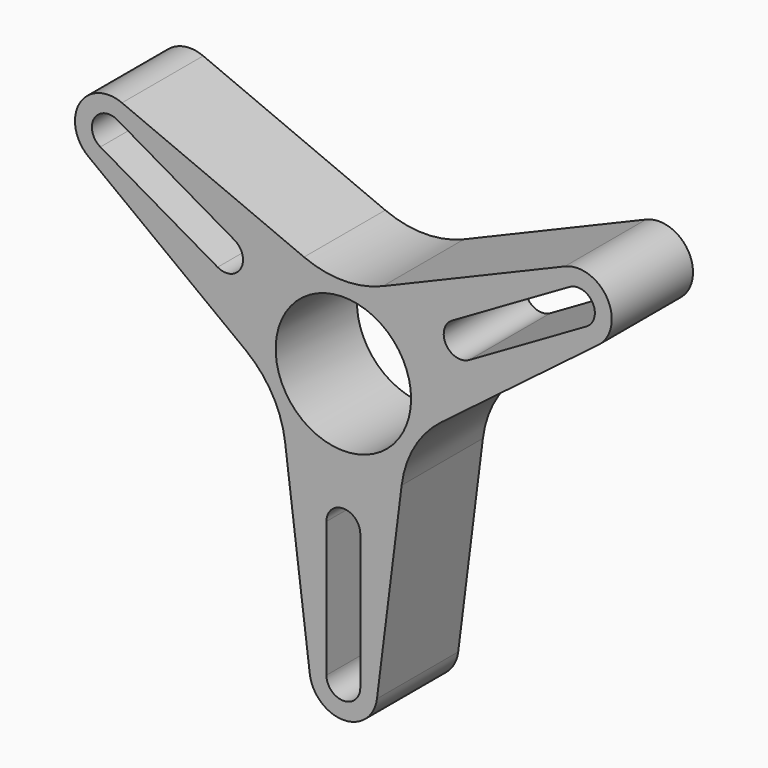
from build123d import *

# Parameters (mm, degrees)
F0_R     = 20
F1_DEPTH = 30


with BuildPart() as f1:
    # F0 (on Front) → F1 (new body)
    with BuildSketch(Plane.XZ):
        with BuildLine():
            Line((-11.634756, 26.593659), (-65.40378, 49.217329))
            ThreePointArc((-65.40378, 49.217329), (-77.942286, 45), (-75.325348, 32.032671))
            Line((-75.325348, 32.032671), (-28.848162, -3.220835))
            ThreePointArc((-28.848162, -3.220835), (-20.997346, -12.122824), (-17.213406, -23.372824))
            Line((-17.213406, -23.372824), (-9.921567, -81.25))
            ThreePointArc((-9.921567, -81.25), (0, -90), (9.921567, -81.25))
            Line((9.921567, -81.25), (17.213406, -23.372824))
            ThreePointArc((17.213406, -23.372824), (20.997346, -12.122824), (28.848162, -3.220835))
            Line((28.848162, -3.220835), (75.325348, 32.032671))
            ThreePointArc((75.325348, 32.032671), (77.942286, 45), (65.40378, 49.217329))
            Line((65.40378, 49.217329), (11.634756, 26.593659))
            ThreePointArc((11.634756, 26.593659), (0, 24.245647), (-11.634756, 26.593659))
        make_face()
        with BuildLine():
            ThreePointArc((5, -80), (0, -85), (-5, -80))
            Line((-5, -80), (-5, -40))
            ThreePointArc((-5, -40), (0, -35), (5, -40))
            Line((5, -40), (5, -80))
        make_face(mode=Mode.SUBTRACT)
        with BuildLine():
            ThreePointArc((-71.782032, 35.669873), (-73.612159, 42.5), (-66.782032, 44.330127))
            Line((-66.782032, 44.330127), (-32.141016, 24.330127))
            ThreePointArc((-32.141016, 24.330127), (-30.310889, 17.5), (-37.141016, 15.669873))
            Line((-37.141016, 15.669873), (-71.782032, 35.669873))
        make_face(mode=Mode.SUBTRACT)
        Circle(F0_R, mode=Mode.SUBTRACT)
        with BuildLine():
            ThreePointArc((66.782032, 44.330127), (73.612159, 42.5), (71.782032, 35.669873))
            Line((71.782032, 35.669873), (37.141016, 15.669873))
            ThreePointArc((37.141016, 15.669873), (30.310889, 17.5), (32.141016, 24.330127))
            Line((32.141016, 24.330127), (66.782032, 44.330127))
        make_face(mode=Mode.SUBTRACT)
    extrude(amount=F1_DEPTH)


solid = f1.part
